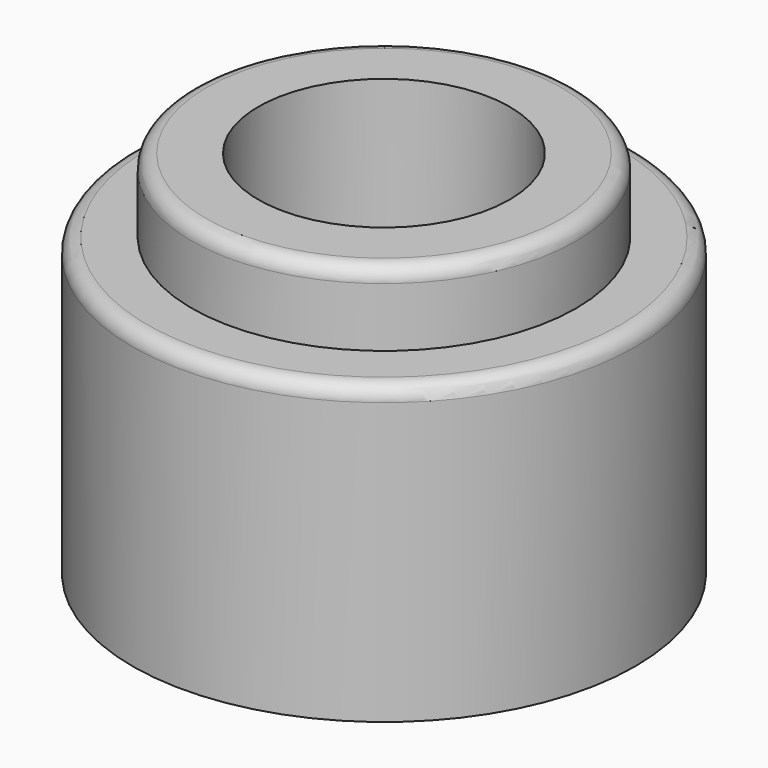
from build123d import *


with BuildPart() as f2:
    # F1 (on Front) → F2 (revolve)
    with BuildSketch(Plane.XZ):
        with BuildLine():
            Line((8.5, 0), (17, 0))
            Line((17, 0), (17, 19))
            ThreePointArc((17, 19), (16.707107, 19.707107), (16, 20))
            Line((16, 20), (13, 20))
            Line((13, 20), (13, 24))
            ThreePointArc((13, 24), (12.707107, 24.707107), (12, 25))
            Line((12, 25), (8.5, 25))
            Line((8.5, 25), (8.5, 10))
            Line((8.5, 10), (6.5, 10))
            Line((6.5, 10), (6.5, 6))
            Line((6.5, 6), (8.5, 6))
            Line((8.5, 6), (8.5, 0))
        make_face()
    revolve(axis=Axis((0, 0, 12.5), (0, 0, 1)))


solid = f2.part
